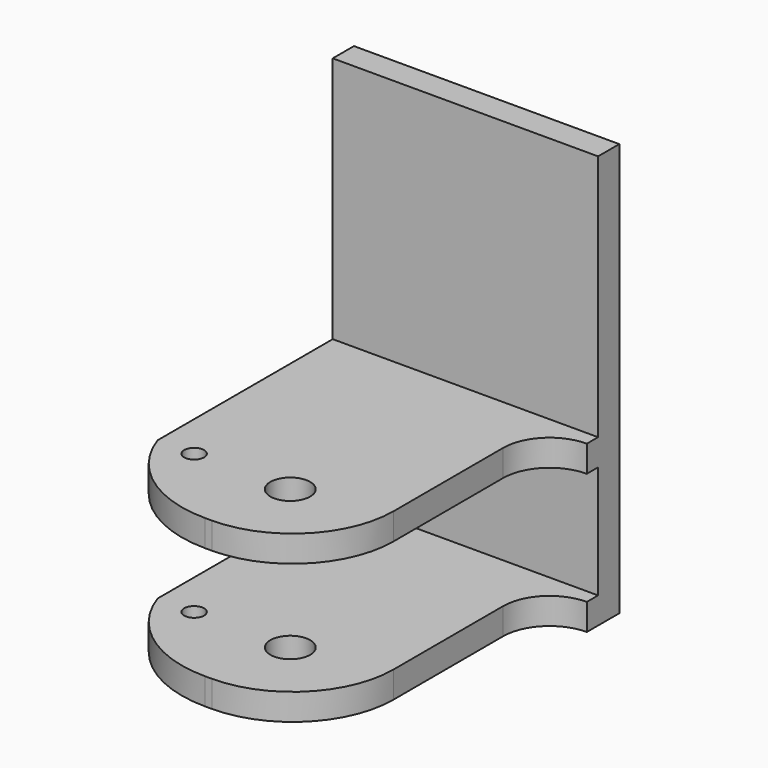
from build123d import *

# Parameters (mm, degrees)
PAD009_DEPTH         = 20
SKETCH017_R          = 3
POCKET005_DEPTH      = 62.271
SKETCH018_R          = 1.5
POCKET006_DEPTH      = 0.001
POCKET006_DEPTH_BACK = 62.271


with BuildPart() as part:
    # Sketch016 → Pad009 (new body, symmetric)
    with BuildSketch(Plane.YZ):
        Polygon((0, 62.27), (0, 0), (-49, 0), (-49, 4), (-4, 4), (-4, 21), (-49, 21), (-49, 25), (-4, 25), (-4, 62.27), align=None)
    extrude(amount=PAD009_DEPTH, both=True)

    # Sketch017 → Pocket005 (cut, through all)
    with BuildSketch(Plane.XY):
        with Locations((0, -37)):
            Circle(SKETCH017_R)
    extrude(amount=POCKET005_DEPTH, mode=Mode.SUBTRACT)

    # Sketch018 → Pocket006 (cut, two sides)
    with BuildSketch(Plane.XY) as pocket006_sk:
        with Locations((-14.5, -37)):
            Circle(SKETCH018_R)
        with BuildLine():
            ThreePointArc((-20, -37), (-13.535443, -45.691314), (-3.221276, -49))
            Line((-3.221276, -49), (-2.229993, -49))
            ThreePointArc((-2.229993, -49), (8.544467, -44.53401), (13, -33.755222))
            Line((13, -33.755222), (12.980003, -13.146812))
            ThreePointArc((20, -6.12), (15.033703, -8.178519), (12.980003, -13.146812))
            Line((20, -6.12), (20, -54.21))
            Line((20, -54.21), (-20, -54.21))
            Line((-20, -37), (-20, -54.21))
        make_face()
    extrude(amount=-POCKET006_DEPTH, mode=Mode.SUBTRACT)
    extrude(pocket006_sk.sketch, amount=POCKET006_DEPTH_BACK, mode=Mode.SUBTRACT)


with BuildPart() as part_1:
    # Body004 placement: moved
    add(part.part.moved(Location((0, 98, 0))))


solid = part_1.part
